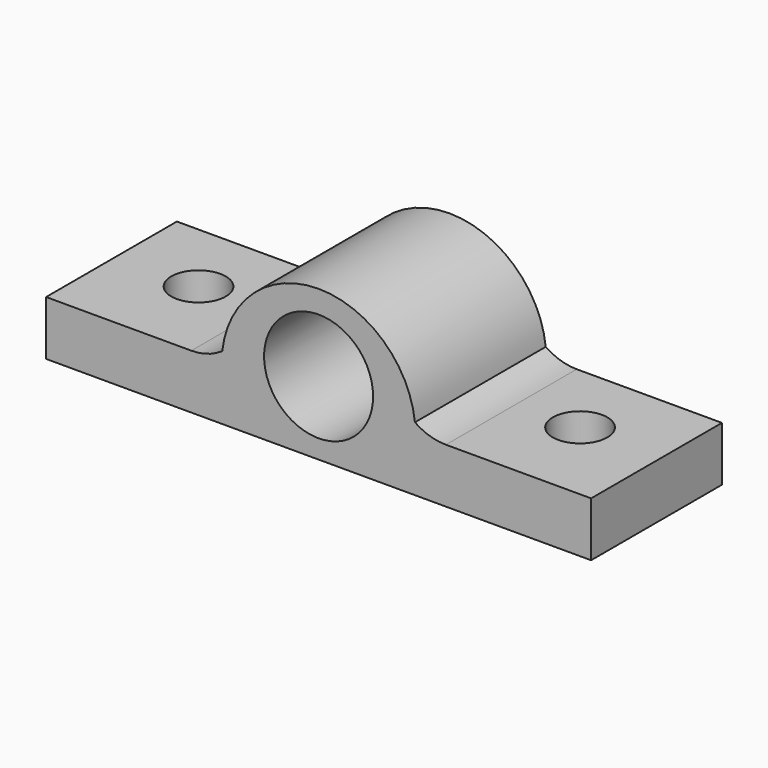
from build123d import *

# Parameters (mm, degrees)
F0_R     = 12.7
F1_DEPTH = 38.1
F2_R     = 6.35
F3_DEPTH = 12.7


with BuildPart() as f1:
    # F0 (on Front) → F1 (new body)
    with BuildSketch(Plane.XZ):
        with BuildLine():
            Line((-63.5, 0), (0, 0))
            Line((0, 0), (63.5, 0))
            Line((63.5, 0), (63.5, 12.7))
            Line((63.5, 12.7), (29.664059, 12.7))
            ThreePointArc((29.664059, 12.7), (25.885674, 13.275075), (22.449471, 14.948219))
            ThreePointArc((22.449471, 14.948219), (0, 35.042593), (-22.449471, 14.948219))
            ThreePointArc((-22.449471, 14.948219), (-25.885674, 13.275075), (-29.664059, 12.7))
            Line((-29.664059, 12.7), (-63.5, 12.7))
            Line((-63.5, 12.7), (-63.5, 0))
        make_face()
        with Locations((0, 17.065845)):
            Circle(F0_R, mode=Mode.SUBTRACT)
    extrude(amount=F1_DEPTH)

    # F2 (on face) → F3 (cut, symmetric)
    with BuildSketch(Plane.XY.offset(12.7)):
        with Locations((-44.45, -17.509114)):
            Circle(F2_R)
        with Locations((44.45, -17.509114)):
            Circle(F2_R)
    extrude(amount=F3_DEPTH, both=True, mode=Mode.SUBTRACT)


solid = f1.part
